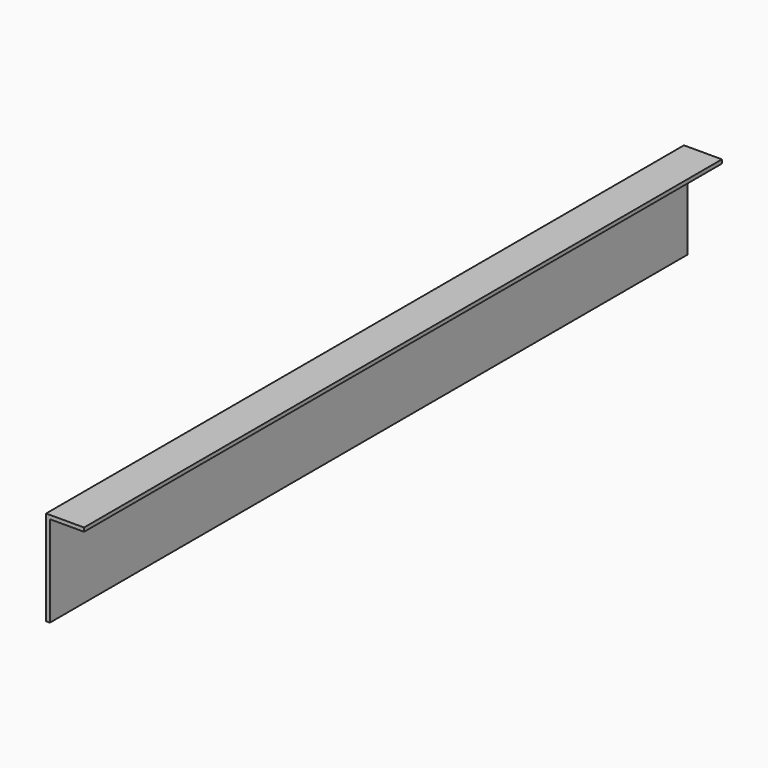
from build123d import *

# Parameters (mm, degrees)
PAD_DEPTH = 210


with BuildPart() as part:
    # Sketch → Pad (new body)
    with BuildSketch(Plane.XZ):
        Polygon((9, 0), (0, 0), (0, -24), (-1, -24), (-1, 1), (9, 1), align=None)
    extrude(amount=PAD_DEPTH)


solid = part.part
